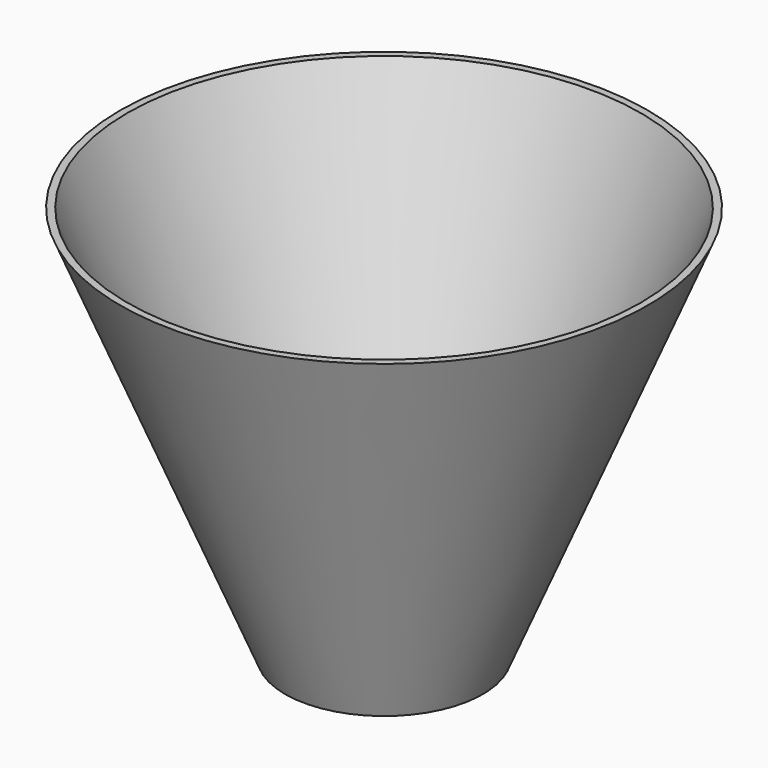
from build123d import *

# Parameters (mm, degrees)
F2_T     = -2
F3_DEPTH = 25


with BuildPart() as f1:
    # F0 (on Front) → F1 (revolve)
    with BuildSketch(Plane.XZ):
        Polygon((0, -120), (0, 0), (-80, 0), (-30, -120), align=None)
    revolve(axis=Axis((0, 0, -60), (0, 0, -1)))

    # F2
    f2_openings = [f1.faces().sort_by_distance(p)[0] for p in [
        (0, 0, 0),
    ]]
    offset(amount=F2_T, openings=f2_openings)

    # F3 (cut): a face of the model
    f3_faces = [f1.faces().sort_by_distance(p)[0] for p in [
        (0, 0, -118),
    ]]
    extrude(f3_faces, amount=-F3_DEPTH, mode=Mode.SUBTRACT)


solid = f1.part
